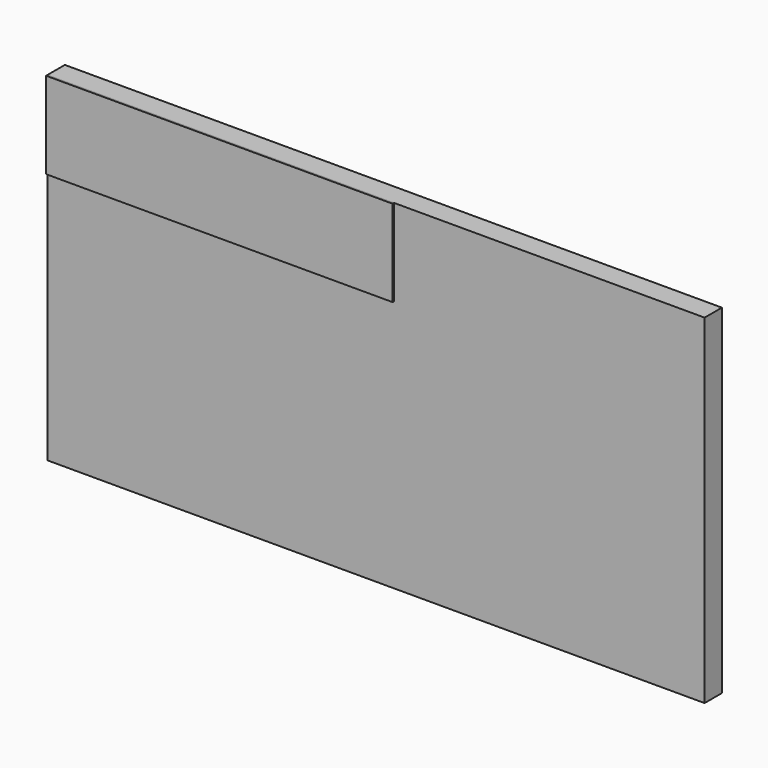
from build123d import *

# Parameters (mm, degrees)
F0_W     = 4622.8
F0_H     = 2387.6
F1_DEPTH = 152.4
F2_W     = 2438.4
F2_H     = 609.6
F3_DEPTH = 12.7


with BuildPart() as f1:
    # F0 (on Front) → F1 (new body)
    with BuildSketch(Plane.XZ):
        with Locations((2311.4, 1193.8)):
            Rectangle(F0_W, F0_H)
    extrude(amount=-F1_DEPTH)


with BuildPart() as f3:
    # F2 (on face) → F3 (new body)
    with BuildSketch(Plane.XZ):
        with Locations((1219.2, 2082.8)):
            Rectangle(F2_W, F2_H)
    extrude(amount=F3_DEPTH)


solid = Compound([f1.part, f3.part])
